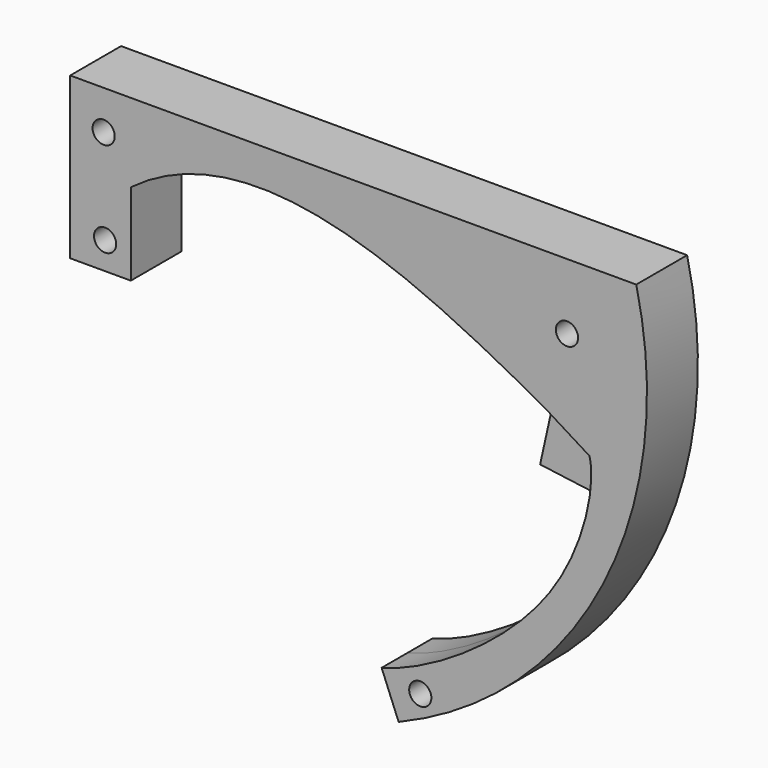
from build123d import *

# Parameters (mm, degrees)
F0_R     = 1.22
F1_DEPTH = 3.5
F2_DEPTH = 2.5


with BuildPart() as f1:
    # F0 (on Front) → F1 (new body, symmetric)
    with BuildSketch(Plane.XZ):
        with BuildLine():
            Line((62.29, 21.44), (0, 21.44))
            Line((0, 21.44), (0, 3.7288318854))
            Line((0, 3.7288318854), (6.67, 3.7288318854))
            Line((6.67, 3.7288318854), (6.67, 12.7888318854))
            add(Edge.make_bspline(
                [(6.67, 12.7888318854), (20.3660801053, 23.045424372), (38.400747317, 13.8677307047), (52.300490874, 6.170732399)],
                knots=[0, 0, 0, 0, 46.1079270648, 46.1079270648, 46.1079270648, 46.1079270648], degree=3))
            Line((52.300490874, 6.170732399), (54.7218512199, 4.6675643861))
            Line((54.7218512199, 4.6675643861), (57.1432115659, 3.1643963732))
            add(Edge.make_bspline(
                [(34.2696725523, -24.7971460684), (39.5248273429, -23.4546774163), (55.1833263354, -13.7442464059), (57.8607167945, 0.4903943708), (57.1432115659, 3.1643963732)],
                knots=[0, 0, 0, 0, 0.5515887475, 1, 1, 1, 1], degree=3))
            Line((34.2696725523, -24.7971460684), (36.1407374849, -29.433859993))
            ThreePointArc((36.1407374849, -29.433859993), (58.6017345208, -8.8215401762), (62.29, 21.44))
        make_face()
        with Locations((38.5225638747, -25.9372070432)):
            Circle(F0_R, mode=Mode.SUBTRACT)
        with Locations((3.8406343665, 6.7383237183)):
            Circle(F0_R, mode=Mode.SUBTRACT)
        with Locations((3.6806345452, 17.1363055706)):
            Circle(F0_R, mode=Mode.SUBTRACT)
        with Locations((54.66741696, 14.1964312643)):
            Circle(F0_R, mode=Mode.SUBTRACT)
    extrude(amount=F1_DEPTH, both=True)

    # F0 (on Front) → F2 (join, symmetric)
    with BuildSketch(Plane.XZ):
        Polygon((54.7218512199, 4.6675643861), (52.300490874, 6.170732399), (50.9101902152, -0.09462234), (53.7600919787, -0.4736803018), align=None)
        Polygon((56.6099937422, -0.8527382635), (57.1432115659, 3.1643963732), (54.7218512199, 4.6675643861), (53.7600919787, -0.4736803018), align=None)
    extrude(amount=F2_DEPTH, both=True)


solid = f1.part
